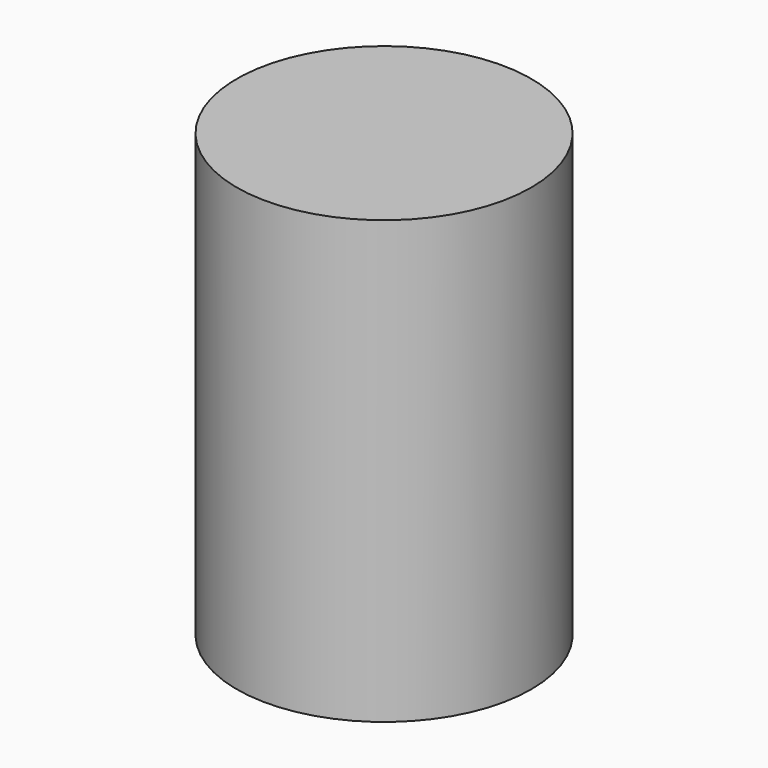
from build123d import *

# Parameters (mm, degrees)
SKETCH_R  = 10
PAD_DEPTH = 30


with BuildPart() as part:
    # Sketch → Pad (new body)
    with BuildSketch(Plane.XY):
        Circle(SKETCH_R)
    extrude(amount=PAD_DEPTH)


solid = part.part
